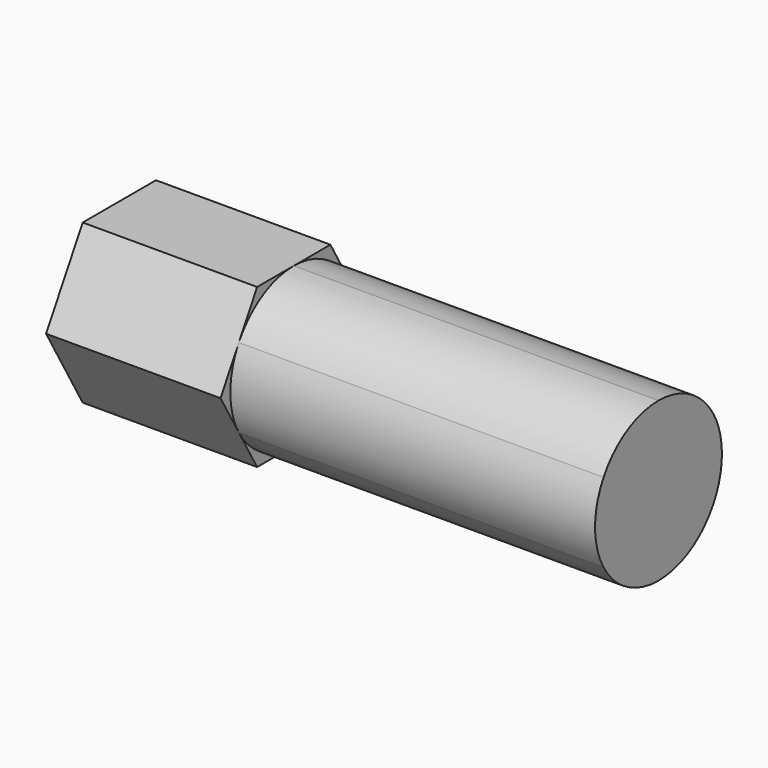
from build123d import *

# Parameters (mm, degrees)
F1_DEPTH = 5.5
F3_DEPTH = 11.5


with BuildPart() as f1:
    # F0 (on Right) → F1 (new body)
    with BuildSketch(Plane.YZ):
        Polygon((1.443376, 2.5), (-1.443376, 2.5), (-2.886751, 0), (-1.443376, -2.5), (1.443376, -2.5), (2.886751, 0), align=None)
    extrude(amount=F1_DEPTH)

    # F2 (on face) → F3 (join)
    with BuildSketch(Plane.YZ.offset(5.5)):
        with BuildLine():
            ThreePointArc((2.165064, -1.25), (2.414815, -0.647048), (2.5, 0))
            ThreePointArc((2.5, 0), (2.414815, 0.647048), (2.165064, 1.25))
            ThreePointArc((2.165064, 1.25), (1.25, 2.165064), (0, 2.5))
            ThreePointArc((0, 2.5), (-1.25, 2.165064), (-2.165064, 1.25))
            ThreePointArc((-2.165064, 1.25), (-2.5, 0), (-2.165064, -1.25))
            ThreePointArc((-2.165064, -1.25), (-1.25, -2.165063), (0, -2.5))
            ThreePointArc((0, -2.5), (1.25, -2.165064), (2.165064, -1.25))
        make_face()
    extrude(amount=F3_DEPTH)


solid = f1.part
